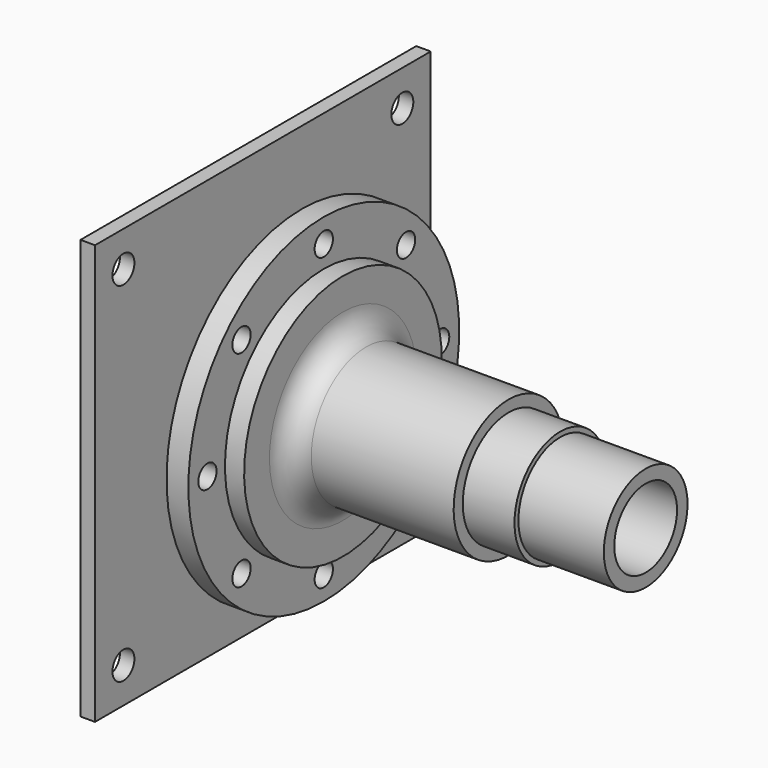
from build123d import *

# Parameters (mm, degrees)
F2_R     = 5
F3_DEPTH = 9.525
F4_W     = 183.45
F4_H     = 183.45
F4_R     = 6
F4_R_2   = 31.3563
F5_DEPTH = 6.35


with BuildPart() as f1:
    # F0 (on Front) → F1 (revolve)
    with BuildSketch(Plane.XZ):
        with BuildLine():
            Line((0, 25.0063), (0, 17.145))
            Line((0, 17.145), (167.3352, 17.145))
            Line((167.3352, 17.145), (167.3352, 22.8727))
            Line((167.3352, 22.8727), (129.9972, 22.8727))
            Line((129.9972, 22.8727), (129.9972, 25.0063))
            Line((129.9972, 25.0063), (107.3912, 25.0063))
            Line((107.3912, 25.0063), (107.3912, 29.9974))
            Line((107.3912, 29.9974), (45.1612, 29.9974))
            ThreePointArc((45.1612, 29.9974), (37.976995, 32.973195), (35.0012, 40.1574))
            Line((35.0012, 40.1574), (35.0012, 54.0004))
            Line((35.0012, 54.0004), (26.6192, 54.0004))
            Line((26.6192, 54.0004), (26.6192, 74.0029))
            Line((26.6192, 74.0029), (17.0942, 74.0029))
            Line((17.0942, 74.0029), (17.0942, 47.625))
            Line((17.0942, 47.625), (18.3642, 47.625))
            ThreePointArc((18.3642, 47.625), (20.160251, 46.881051), (20.9042, 45.085))
            Line((20.9042, 45.085), (20.9042, 25.0063))
            Line((20.9042, 25.0063), (0, 25.0063))
        make_face()
    revolve(axis=Axis((83.6676, 0, 0), (1, 0, 0)))

    # F2 (on face) → F3 (cut, through all)
    with BuildSketch(Plane(origin=(17.0942, 0, 0), x_dir=(0, -1, 0), z_dir=(-1, 0, 0))):
        with Locations((0, 63.5762)):
            Circle(F2_R)
        with Locations((-44.955162, 44.955162)):
            Circle(F2_R)
        with Locations((-63.5762, 0)):
            Circle(F2_R)
        with Locations((-44.955162, -44.955162)):
            Circle(F2_R)
        with Locations((0, -63.5762)):
            Circle(F2_R)
        with Locations((44.955162, -44.955162)):
            Circle(F2_R)
        with Locations((63.5762, 0)):
            Circle(F2_R)
        with Locations((44.955162, 44.955162)):
            Circle(F2_R)
    extrude(amount=-F3_DEPTH, mode=Mode.SUBTRACT)


with BuildPart() as f5:
    # F4 (on Right) → F5 (new body)
    with BuildSketch(Plane.YZ):
        Rectangle(F4_W, F4_H)
        with Locations((-76.2, -76.2)):
            Circle(F4_R, mode=Mode.SUBTRACT)
        with Locations((76.2, -76.2)):
            Circle(F4_R, mode=Mode.SUBTRACT)
        with Locations((-76.2, 76.2)):
            Circle(F4_R, mode=Mode.SUBTRACT)
        Circle(F4_R_2, mode=Mode.SUBTRACT)
        with Locations((76.2, 76.2)):
            Circle(F4_R, mode=Mode.SUBTRACT)
    extrude(amount=-F5_DEPTH)


solid = Compound([f1.part, f5.part])
